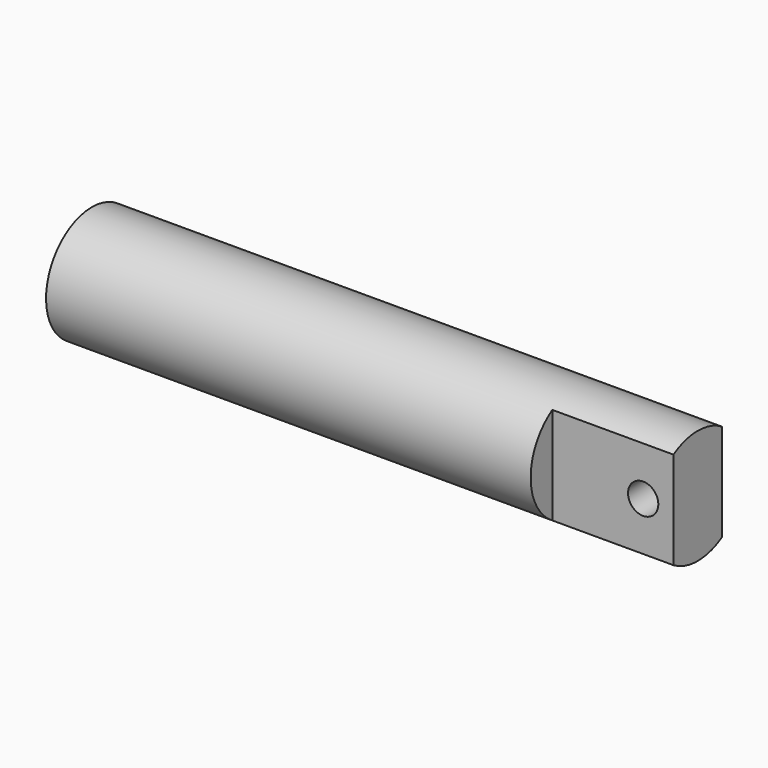
from build123d import *

# Parameters (mm, degrees)
F3_DEPTH = 25.4
F4_R     = 3.175
F5_DEPTH = 18.3706396773


with BuildPart() as f1:
    # F0 (on Front) → F1 (revolve)
    with BuildSketch(Plane.XZ):
        with BuildLine():
            Line((6.35, 12.0196396773), (-120.65, 12.0196396773))
            Line((-120.65, 12.0196396773), (-120.65, 10.49467489))
            ThreePointArc((-120.65, 10.49467489), (-116.3146984161, 6.0237057619), (-114.733757664, 0))
            Line((-114.733757664, 0), (6.35, 0))
            Line((6.35, 0), (6.35, 12.0196396773))
        make_face()
    revolve(axis=Axis((-54.191878832, 0, 0), (-1, 0, 0)))

    # F2 (on face) → F3 (cut)
    with BuildSketch(Plane.YZ.offset(6.35)):
        with BuildLine():
            Line((-6.35, -10.2053533977), (-6.35, 10.2053533977))
            ThreePointArc((-6.35, 10.2053533977), (-12.0196396773, 0), (-6.35, -10.2053533977))
        make_face()
        with BuildLine():
            ThreePointArc((12.0196396773, 0), (10.5070559607, 5.8372521798), (6.35, 10.2053533977))
            Line((6.35, 10.2053533977), (6.35, -10.2053533977))
            ThreePointArc((6.35, -10.2053533977), (10.5070559607, -5.8372521798), (12.0196396773, 0))
        make_face()
    extrude(amount=-F3_DEPTH, mode=Mode.SUBTRACT)

    # F4 (on face) → F5 (cut, through all)
    with BuildSketch(Plane.XZ.offset(6.35)):
        Circle(F4_R)
    extrude(amount=-F5_DEPTH, mode=Mode.SUBTRACT)


solid = f1.part
